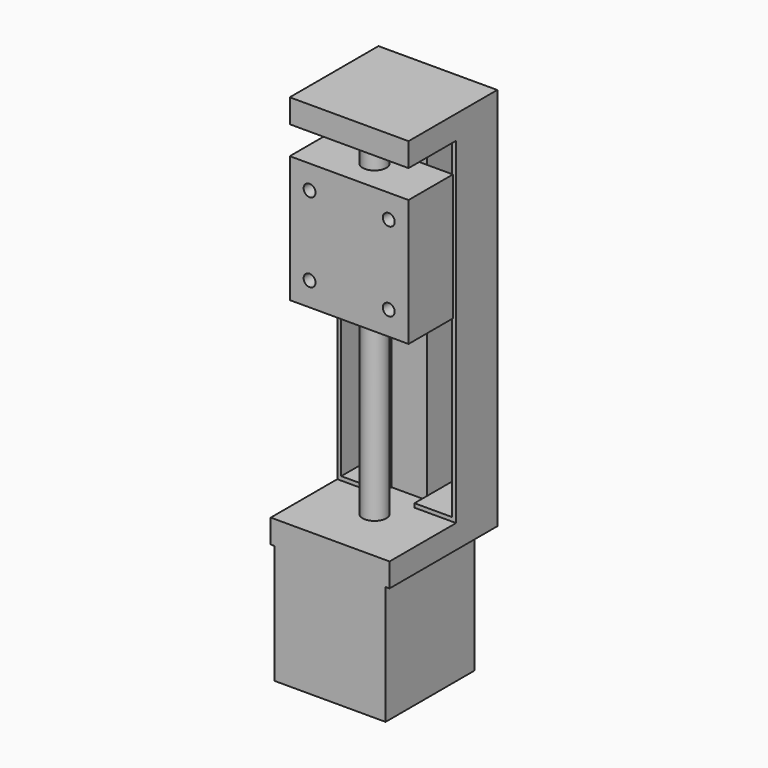
from build123d import *

# Parameters (mm, degrees)
SKETCH_W                = 30
SKETCH_H                = 97
PAD_DEPTH               = 13
SKETCH001_W             = 30
SKETCH001_H             = 6
PAD001_DEPTH            = 15
PAD001_FACE5_W          = 30
PAD001_FACE5_H          = 6
PAD002_DEPTH            = 6
SKETCH002_W             = 28
SKETCH002_H             = 28
PAD003_DEPTH            = 30
SKETCH003_W             = 26
SKETCH003_H             = 26
PAD004_DEPTH            = 1
SKETCH004_W             = 30
SKETCH004_H             = 32
PAD005_DEPTH            = 14
SKETCH005_R             = 1.5
POCKET_DEPTH            = 10
SKETCH006_R             = 3
PAD006_DEPTH            = 85
SKETCH007_W             = 9
SKETCH007_H             = 85
POCKET001_DEPTH         = 4
SKETCH008_R             = 1.5
POCKET002_DEPTH         = 14
SKETCH028_W             = 9.5
SKETCH028_H             = 83
POCKET007_DEPTH         = 12
SKETCH029_W             = 9.5
SKETCH029_H             = 83
POCKET008_DEPTH         = 12
BODY001_PLACEMENT_ANGLE = 180


with BuildPart() as part:
    # Sketch → Pad (new body)
    with BuildSketch(Plane.XZ):
        Rectangle(SKETCH_W, SKETCH_H)
    extrude(amount=PAD_DEPTH)

    # Sketch001 (on Face6 of Pad) → Pad001 (join)
    with BuildSketch(Plane.XZ.offset(13)):
        with Locations((0, -45.5)):
            Rectangle(SKETCH001_W, SKETCH001_H)
        with Locations((0, 45.5)):
            Rectangle(SKETCH001_W, SKETCH001_H)
    extrude(amount=PAD001_DEPTH)

    # Pad001 Face5 → Pad002 (add)
    with BuildSketch(Plane(origin=(0, -28, 45.5), x_dir=(-1, 0, 0), z_dir=(0, -1, 0))):
        Rectangle(PAD001_FACE5_W, PAD001_FACE5_H)
    extrude(amount=PAD002_DEPTH)

    # Sketch002 (on Face8 of Pad002) → Pad003 (join)
    with BuildSketch(Plane(origin=(0, 0, 48.5), x_dir=(-1, 0, 0), z_dir=(0, 0, 1))):
        with Locations((0, 20)):
            Rectangle(SKETCH002_W, SKETCH002_H)
    extrude(amount=PAD003_DEPTH)

    # Sketch003 (on Face1 of Pad003) → Pad004 (join)
    with BuildSketch(Plane.XZ.offset(13)):
        with Locations((0, -19.410291)):
            Rectangle(SKETCH003_W, SKETCH003_H)
    extrude(amount=PAD004_DEPTH)

    # Sketch004 (on Face15 of Pad004) → Pad005 (join)
    with BuildSketch(Plane.XZ.offset(14)):
        with Locations((0, -19.410291)):
            Rectangle(SKETCH004_W, SKETCH004_H)
    extrude(amount=PAD005_DEPTH)

    # Sketch005 (on Face24 of Pad005) → Pocket (cut)
    with BuildSketch(Plane.XZ.offset(28)):
        with Locations((-10, -9.410291)):
            Circle(SKETCH005_R)
        with Locations((10, -9.410291)):
            Circle(SKETCH005_R)
        with Locations((10, -29.410291)):
            Circle(SKETCH005_R)
        with Locations((-10, -29.410291)):
            Circle(SKETCH005_R)
    extrude(amount=-POCKET_DEPTH, mode=Mode.SUBTRACT)

    # Sketch006 (on Face5 of Pocket) → Pad006 (join)
    with BuildSketch(Plane(origin=(0, 0, 42.5), x_dir=(1, 0, 0), z_dir=(0, 0, -1))):
        with Locations((0, 20)):
            Circle(SKETCH006_R)
    extrude(amount=PAD006_DEPTH)

    # Sketch007 (on Face1 of Pad006) → Pocket001 (cut)
    with BuildSketch(Plane.XZ.offset(13)):
        Rectangle(SKETCH007_W, SKETCH007_H)
    extrude(amount=-POCKET001_DEPTH, mode=Mode.SUBTRACT)

    # Sketch008 (on Face8 of Pocket001) → Pocket002 (cut)
    with BuildSketch(Plane(origin=(0, 0, 0), x_dir=(1, 0, 0), z_dir=(0, 1, 0))):
        with Locations((-8.5, 27.5)):
            Circle(SKETCH008_R)
        with Locations((8.5, 27.5)):
            Circle(SKETCH008_R)
        with Locations((8.5, -27.5)):
            Circle(SKETCH008_R)
        with Locations((-8.5, -27.5)):
            Circle(SKETCH008_R)
    extrude(amount=-POCKET002_DEPTH, mode=Mode.SUBTRACT)

    # Sketch028 (on Face17 of Pocket002) → Pocket007 (cut)
    with BuildSketch(Plane.XZ.offset(13)):
        with Locations((-9.25, 0)):
            Rectangle(SKETCH028_W, SKETCH028_H)
    extrude(amount=-POCKET007_DEPTH, mode=Mode.SUBTRACT)

    # Sketch029 (on Face1 of Pocket007) → Pocket008 (cut)
    with BuildSketch(Plane.XZ.offset(13)):
        with Locations((9.25, 0)):
            Rectangle(SKETCH029_W, SKETCH029_H)
    extrude(amount=-POCKET008_DEPTH, mode=Mode.SUBTRACT)


with BuildPart() as part_1:
    # Body001 placement: moved
    add(part.part.moved(Location((-1, -9, 20))).rotate(Axis((-1, -9, 20), (0, 1, 0)), BODY001_PLACEMENT_ANGLE))


solid = part_1.part
